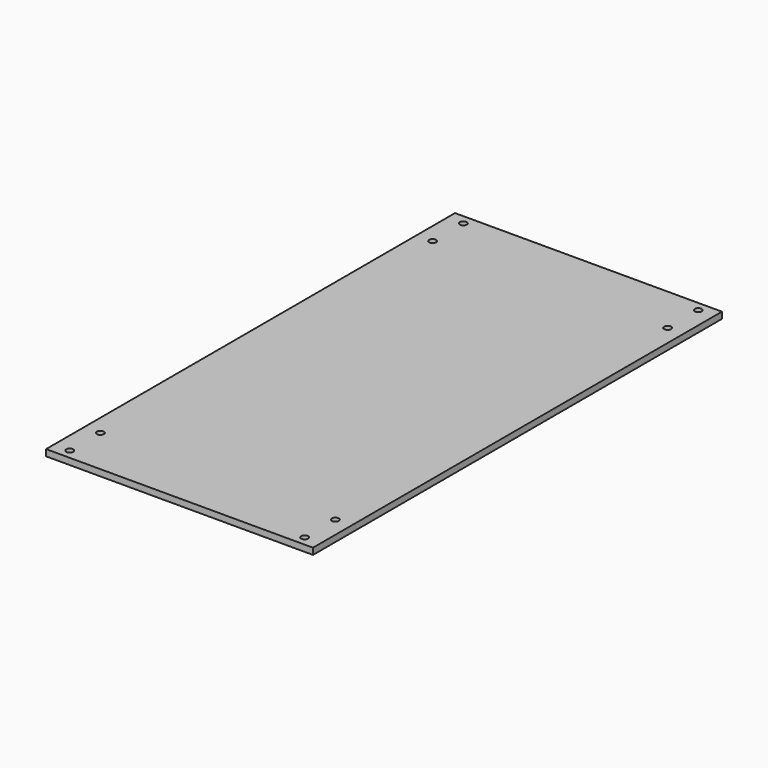
from build123d import *

# Parameters (mm, degrees)
F0_W     = 132.6261
F0_H     = 254
F0_R     = 1.7272
F1_DEPTH = 3.175


with BuildPart() as f1:
    # F0 (on Top) → F1 (new body)
    with BuildSketch(Plane.XY):
        Rectangle(F0_W, F0_H)
        with Locations((-58.37555, -122.2375)):
            Circle(F0_R, mode=Mode.SUBTRACT)
        with Locations((-58.37555, -103.1875)):
            Circle(F0_R, mode=Mode.SUBTRACT)
        with Locations((58.37555, -122.2375)):
            Circle(F0_R, mode=Mode.SUBTRACT)
        with Locations((58.37555, -103.1875)):
            Circle(F0_R, mode=Mode.SUBTRACT)
        with Locations((-58.37555, 103.1875)):
            Circle(F0_R, mode=Mode.SUBTRACT)
        with Locations((-58.37555, 122.2375)):
            Circle(F0_R, mode=Mode.SUBTRACT)
        with Locations((58.37555, 103.1875)):
            Circle(F0_R, mode=Mode.SUBTRACT)
        with Locations((58.37555, 122.2375)):
            Circle(F0_R, mode=Mode.SUBTRACT)
    extrude(amount=F1_DEPTH)


solid = f1.part
